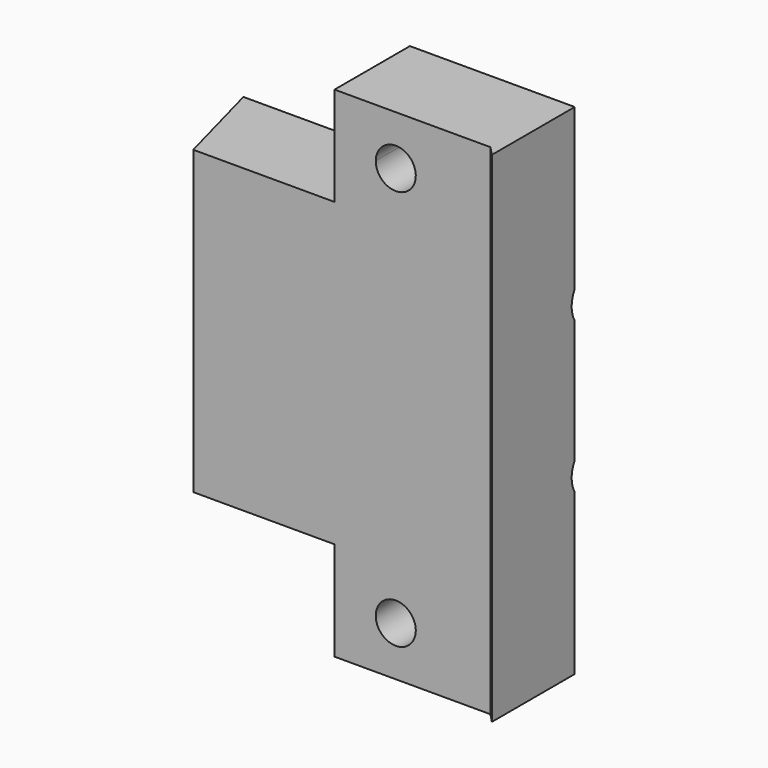
from build123d import *

# Parameters (mm, degrees)
F1_DEPTH  = 64
F3_D      = 12
F5_DEPTH  = 21
F7_DEPTH  = 8
F9_DEPTH  = 21
F11_DEPTH = 8
F13_DEPTH = 25
F14_D     = 8.5


with BuildPart() as f1:
    # F0 (on Top) → F1 (new body)
    with BuildSketch(Plane.XY):
        Polygon((-65, 0), (-1.9, 0), (0, -2), (0, 20), (-70.3589838486, 20), align=None)
    extrude(amount=F1_DEPTH)

    # F3 (through all)
    with Locations(Plane(origin=(-60.645825623, -16.25, 0), x_dir=(0.2588190451, -0.9659258263, 0), z_dir=(-0.9659258263, -0.2588190451, 0))):
        with Locations((-24.5287615399, 48), (-24.5287615399, 16)):
            Hole(F3_D / 2)

    # F4 (on face) → F5 (join)
    with BuildSketch(Plane(origin=(0, 0, 0), x_dir=(1, 0, 0), z_dir=(0, 0, -1))):
        Polygon((-35, -20), (0, -20), (0, 0), (-1.9, 0), (-35, 0), align=None)
        Polygon((-1.9, 0), (0, 0), (0, 2), align=None)
    extrude(amount=F5_DEPTH)

    # F6 (on face) → F7 (cut)
    with BuildSketch(Plane(origin=(0, 20, 0), x_dir=(-1, 0, 0), z_dir=(0, 1, 0))):
        Polygon((25.897114317, -17.25), (29.7942286341, -10.5), (22, -10.5), (22, -17.25), align=None)
        Polygon((22, -10.5), (29.7942286341, -10.5), (25.897114317, -3.75), (18.102885683, -3.75), (14.2057713659, -10.5), align=None)
        Polygon((22, -17.25), (22, -10.5), (14.2057713659, -10.5), (18.102885683, -17.25), align=None)
    extrude(amount=-F7_DEPTH, mode=Mode.SUBTRACT)

    # F8 (on face) → F9 (join)
    with BuildSketch(Plane.XY.offset(64)):
        Polygon((0, 0), (0, 20), (-35, 20), (-35, 0), (-1.9, 0), align=None)
        Polygon((0, -2), (0, 0), (-1.9, 0), align=None)
    extrude(amount=F9_DEPTH)

    # F10 (on face) → F11 (cut)
    with BuildSketch(Plane(origin=(0, 20, 0), x_dir=(-1, 0, 0), z_dir=(0, 1, 0))):
        Polygon((25.7527767497, 68), (29.5055534995, 74.5), (14.4944465005, 74.5), (18.2472232503, 68), align=None)
        Polygon((14.4944465005, 74.5), (29.5055534995, 74.5), (25.7527767497, 81), (18.2472232503, 81), align=None)
    extrude(amount=-F11_DEPTH, mode=Mode.SUBTRACT)

    # F12 (on face) → F13 (cut)
    with BuildSketch(Plane(origin=(0, 12, 0), x_dir=(-1, 0, 0), z_dir=(0, 1, 0))):
        with BuildLine():
            Line((19.875, 70.8193920339), (24.125, 78.1806079661))
            ThreePointArc((24.125, 78.1806079661), (18.3193920339, 76.625), (19.875, 70.8193920339))
        make_face()
        with BuildLine():
            ThreePointArc((26.25, 74.5), (25.6806079661, 76.625), (24.125, 78.1806079661))
            Line((24.125, 78.1806079661), (19.875, 70.8193920339))
            ThreePointArc((19.875, 70.8193920339), (24.125, 70.8193920339), (26.25, 74.5))
        make_face()
    extrude(amount=-F13_DEPTH, mode=Mode.SUBTRACT)

    # F14 (through all)
    with Locations(Plane(origin=(0, 20, 0), x_dir=(-1, 0, 0), z_dir=(0, 1, 0))):
        with Locations((22, -10.5)):
            Hole(F14_D / 2)


solid = f1.part
